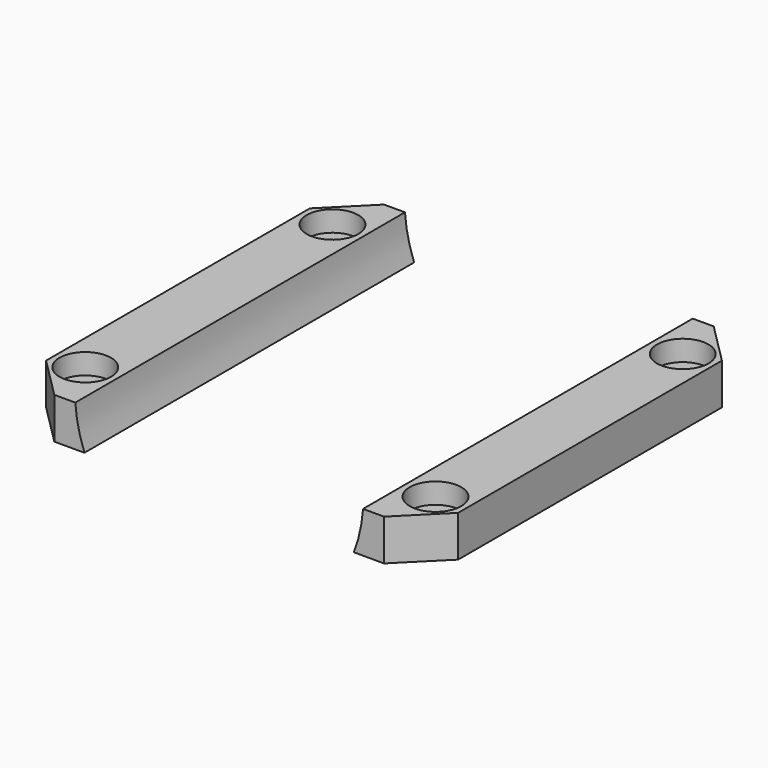
from build123d import *

# Parameters (mm, degrees)
CYLINDER1834_R     = 2.5
CYLINDER1834_DEPTH = 3
CYLINDER1833_R     = 2.5
CYLINDER1833_DEPTH = 3
CYLINDER1835_R     = 2.5
CYLINDER1835_DEPTH = 3
CYLINDER1836_R     = 2.5
CYLINDER1836_DEPTH = 3
CYLINDER1837_R     = 1.25
CYLINDER1837_DEPTH = 20
CYLINDER1832_R     = 1.25
CYLINDER1832_DEPTH = 20
CYLINDER1838_R     = 1.25
CYLINDER1838_DEPTH = 20
CYLINDER1839_R     = 1.25
CYLINDER1839_DEPTH = 20
CYLINDER1840_R     = 14
CYLINDER1840_DEPTH = 40
BOX719_W           = 40
BOX719_H           = 40
BOX719_DEPTH       = 4
CHAMFER063_SIZE    = 4


with BuildPart() as obj1:
    # Cylinder1834 → Cylinder1834 (new body)
    with BuildSketch(Plane(origin=(58, -19, 26), x_dir=(1, 0, 0), z_dir=(0, 0, 1))):
        Circle(CYLINDER1834_R)
    extrude(amount=CYLINDER1834_DEPTH)


with BuildPart() as compound919:
    # Cylinder1833 → Cylinder1833 (new body)
    with BuildSketch(Plane(origin=(58, 11, 26), x_dir=(1, 0, 0), z_dir=(0, 0, 1))):
        Circle(CYLINDER1833_R)
    extrude(amount=CYLINDER1833_DEPTH)

    # Compound919: union obj1
    add(obj1.part)


with BuildPart() as compound919_1:
    # Compound919 placement: moved
    add(compound919.part.moved(Location((34, 0, 13))))


with BuildPart() as obj2:
    # Cylinder1835 → Cylinder1835 (new body)
    with BuildSketch(Plane(origin=(58, -19, 26), x_dir=(1, 0, 0), z_dir=(0, 0, 1))):
        Circle(CYLINDER1835_R)
    extrude(amount=CYLINDER1835_DEPTH)


with BuildPart() as compound922:
    # Cylinder1836 → Cylinder1836 (new body)
    with BuildSketch(Plane(origin=(58, 11, 26), x_dir=(1, 0, 0), z_dir=(0, 0, 1))):
        Circle(CYLINDER1836_R)
    extrude(amount=CYLINDER1836_DEPTH)

    # Compound923: union obj2
    add(obj2.part)


with BuildPart() as compound922_1:
    # Compound923 placement: moved
    add(compound922.part.moved(Location((0, 0, 13))))

    # Compound922: union Compound919
    add(compound919_1.part)


with BuildPart() as obj3:
    # Cylinder1837 → Cylinder1837 (new body)
    with BuildSketch(Plane(origin=(58, -19, 26), x_dir=(1, 0, 0), z_dir=(0, 0, 1))):
        Circle(CYLINDER1837_R)
    extrude(amount=CYLINDER1837_DEPTH)


with BuildPart() as compound918:
    # Cylinder1832 → Cylinder1832 (new body)
    with BuildSketch(Plane(origin=(58, 11, 26), x_dir=(1, 0, 0), z_dir=(0, 0, 1))):
        Circle(CYLINDER1832_R)
    extrude(amount=CYLINDER1832_DEPTH)

    # Compound918: union obj3
    add(obj3.part)


with BuildPart() as compound918_1:
    # Compound918 placement: moved
    add(compound918.part.moved(Location((34, 0, 0))))


with BuildPart() as obj4:
    # Cylinder1838 → Cylinder1838 (new body)
    with BuildSketch(Plane(origin=(58, -19, 26), x_dir=(1, 0, 0), z_dir=(0, 0, 1))):
        Circle(CYLINDER1838_R)
    extrude(amount=CYLINDER1838_DEPTH)


with BuildPart() as compound920:
    # Cylinder1839 → Cylinder1839 (new body)
    with BuildSketch(Plane(origin=(58, 11, 26), x_dir=(1, 0, 0), z_dir=(0, 0, 1))):
        Circle(CYLINDER1839_R)
    extrude(amount=CYLINDER1839_DEPTH)

    # Compound921: union obj4
    add(obj4.part)

    # Compound920: union Compound918
    add(compound918_1.part)


with BuildPart() as obj5:
    # Cylinder1840 → Cylinder1840 (new body)
    with BuildSketch(Plane(origin=(75, 16, 42), x_dir=(1, 0, 0), z_dir=(0, -1, 0))):
        Circle(CYLINDER1840_R)
    extrude(amount=CYLINDER1840_DEPTH)


with BuildPart() as chamfer063:
    # Box719 → Box719 (new body)
    with BuildSketch(Plane(origin=(55, -24, 37), x_dir=(1, 0, 0), z_dir=(0, 0, 1))):
        with Locations((20, 20)):
            Rectangle(BOX719_W, BOX719_H)
    extrude(amount=BOX719_DEPTH)

    # Cut543: cut obj5
    add(obj5.part, mode=Mode.SUBTRACT)

    # Cut544: cut Compound920
    add(compound920.part, mode=Mode.SUBTRACT)

    # Cut545: cut Compound922
    add(compound922_1.part, mode=Mode.SUBTRACT)

    # Chamfer063
    chamfer063_edges = [chamfer063.edges().sort_by_distance(p)[0] for p in [
        (55, -24, 39),
        (55, 16, 39),
        (95, -24, 39),
        (95, 16, 39),
    ]]
    chamfer(chamfer063_edges, length=CHAMFER063_SIZE)


solid = chamfer063.part
